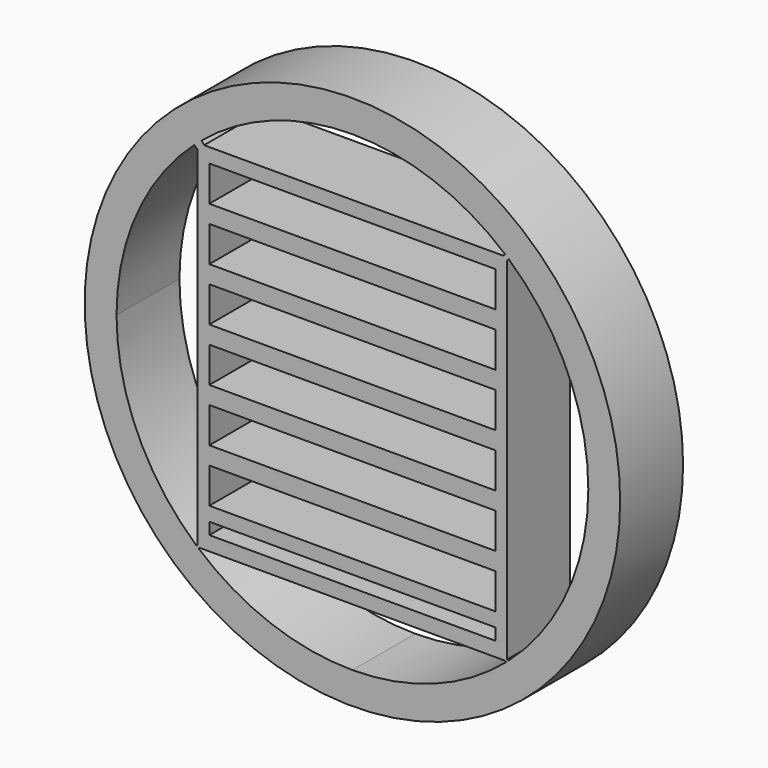
from build123d import *

# Parameters (mm, degrees)
F0_R     = 10.8121335874
F0_W     = 5.7772109285
F0_H     = 0.716982875
F0_H_2   = 0.7141863704
F0_H_3   = 0.5685804115
F1_DEPTH = 3.175


with BuildPart() as f1:
    # F0 (on Front) → F1 (new body)
    with BuildSketch(Plane.XZ):
        Circle(F0_R)
        with BuildLine():
            ThreePointArc((6.3062577959, 7.1383988129), (8.6831080411, 3.9152598569), (9.525, 0))
            ThreePointArc((9.525, 0), (8.6816518395, -3.9184877615), (6.3009482756, -7.1430858757))
            ThreePointArc((6.3009482756, -7.1430858757), (6.2763830489, -7.1646800922), (6.2517438163, -7.1861898288))
            ThreePointArc((6.2517438163, -7.1861898288), (6.2295179256, -7.205465385), (6.2072326042, -7.2246722))
            ThreePointArc((6.2072326042, -7.2246722), (3.3098808358, -8.9314228347), (0, -9.525))
            ThreePointArc((0, -9.525), (-3.3121824388, -8.9305695503), (-6.2109555135, -7.2214719143))
            ThreePointArc((-6.2109555135, -7.2214719143), (-6.2313746359, -7.2038597395), (-6.2517438163, -7.1861898288))
            ThreePointArc((-6.2517438163, -7.1861898288), (-6.2787205913, -7.1626316907), (-6.305608594, -7.1389722831))
            ThreePointArc((-6.305608594, -7.1389722831), (-8.6829300025, -3.9156546797), (-9.525, 0))
            ThreePointArc((-9.525, 0), (-8.7048463851, 3.8666877831), (-6.3856247955, 7.0674904295))
            ThreePointArc((-6.3856247955, 7.0674904295), (-6.3189630276, 7.1271544992), (-6.2517438163, 7.1861898288))
            ThreePointArc((-6.2517438163, 7.1861898288), (-6.1734679548, 7.2535452305), (-6.0944664659, 7.3200480529))
            ThreePointArc((-6.0944664659, 7.3200480529), (-3.2405375554, 8.9568153577), (0, 9.525))
            ThreePointArc((0, 9.525), (3.2811323241, 8.9420241373), (6.1606224546, 7.2644584087))
            ThreePointArc((6.1606224546, 7.2644584087), (6.2063065187, 7.2254677632), (6.2517438163, 7.1861898288))
            ThreePointArc((6.2517438163, 7.1861898288), (6.2790462746, 7.1623461855), (6.3062577959, 7.1383988129))
        make_face(mode=Mode.SUBTRACT)
        with Locations((-2.8886054642, 4.8158199061)):
            Rectangle(F0_W, F0_H)
        with Locations((2.8886054642, 4.8158199061)):
            Rectangle(F0_W, F0_H)
        with Locations((-2.8886054642, 0.5223121699)):
            Rectangle(F0_W, F0_H)
        with Locations((2.8886054642, 0.5223121699)):
            Rectangle(F0_W, F0_H)
        with Locations((2.8886054642, -3.7711955662)):
            Rectangle(F0_W, F0_H)
        with Locations((-2.8886054642, -3.7711955662)):
            Rectangle(F0_W, F0_H)
        with Locations((-2.8886054642, 2.669066038)):
            Rectangle(F0_W, F0_H_2)
        with Locations((2.8886054642, 2.669066038)):
            Rectangle(F0_W, F0_H_2)
        with Locations((-2.8886054642, -1.6244416981)):
            Rectangle(F0_W, F0_H_2)
        with Locations((2.8886054642, -1.6244416981)):
            Rectangle(F0_W, F0_H_2)
        Polygon((5.7772109285, 6.605480589), (6.2517438163, 7.1861898288), (6.0889851302, 7.1861898288), (0, 7.1861898288), (0, 6.605480589), align=None)
        Polygon((0, 6.605480589), (0, 7.1861898288), (-5.9895003214, 7.1861898288), (-6.2517438163, 7.1861898288), (-5.7772109285, 6.605480589), align=None)
        Polygon((-6.1821243726, -7.1861898288), (0, -7.1861898288), (0, -6.605480589), (-5.7772109285, -6.605480589), (-6.2517438163, -7.1861898288), align=None)
        Polygon((6.1562946066, -7.1861898288), (6.2517438163, -7.1861898288), (5.7772109285, -6.605480589), (0, -6.605480589), (0, -7.1861898288), align=None)
        with Locations((-2.8886054642, -5.8451464548)):
            Rectangle(F0_W, F0_H_3)
        with Locations((2.8886054642, -5.8451464548)):
            Rectangle(F0_W, F0_H_3)
        Polygon((6.2517438163, -7.1099842899), (6.2517438163, 0), (5.7772109285, 0), (5.7772109285, -0.5503656379), (5.7772109285, -1.2673485129), (5.7772109285, -1.9815348833), (5.7772109285, -2.6985177583), (5.7772109285, -3.4127041287), (5.7772109285, -4.1296870037), (5.7772109285, -4.843873374), (5.7772109285, -5.5608562491), (5.7772109285, -6.1294366606), (5.7772109285, -6.605480589), (6.2517438163, -7.1861898288), align=None)
        Polygon((5.7772109285, 0), (6.2517438163, 0), (6.2517438163, 7.0716873743), (6.2517438163, 7.1861898288), (5.7772109285, 6.605480589), (5.7772109285, 5.8884977139), (5.7772109285, 5.1743113436), (5.7772109285, 4.4573284686), (5.7772109285, 3.7431420982), (5.7772109285, 3.0261592232), (5.7772109285, 2.3119728528), (5.7772109285, 1.5949899778), (5.7772109285, 0.8808036075), (5.7772109285, 0.1638207324), align=None)
        Polygon((-6.2517438163, 0), (-5.7772109285, 0), (-5.7772109285, 0.1638207324), (-5.7772109285, 0.8808036075), (-5.7772109285, 1.5949899778), (-5.7772109285, 2.3119728528), (-5.7772109285, 3.0261592232), (-5.7772109285, 3.7431420982), (-5.7772109285, 4.4573284686), (-5.7772109285, 5.1743113436), (-5.7772109285, 5.8884977139), (-5.7772109285, 6.605480589), (-6.2517438163, 7.1861898288), (-6.2517438163, 6.9398786873), align=None)
        Polygon((-5.7772109285, -0.5503656379), (-5.7772109285, 0), (-6.2517438163, 0), (-6.2517438163, -7.1003455669), (-6.2517438163, -7.1861898288), (-5.7772109285, -6.605480589), (-5.7772109285, -6.1294366606), (-5.7772109285, -5.5608562491), (-5.7772109285, -4.843873374), (-5.7772109285, -4.1296870037), (-5.7772109285, -3.4127041287), (-5.7772109285, -2.6985177583), (-5.7772109285, -1.9815348833), (-5.7772109285, -1.2673485129), align=None)
        with BuildLine():
            Line((-5.9895003214, 7.1861898288), (-6.0944664659, 7.3200480529))
            ThreePointArc((-6.0944664659, 7.3200480529), (-6.1734679548, 7.2535452305), (-6.2517438163, 7.1861898288))
            Line((-6.2517438163, 7.1861898288), (-5.9895003214, 7.1861898288))
        make_face()
        with BuildLine():
            Line((-6.2517438163, 6.9398786873), (-6.2517438163, 7.1861898288))
            ThreePointArc((-6.2517438163, 7.1861898288), (-6.3189630276, 7.1271544992), (-6.3856247955, 7.0674904295))
            Line((-6.3856247955, 7.0674904295), (-6.2517438163, 6.9398786873))
        make_face()
        with BuildLine():
            Line((6.0889851302, 7.1861898288), (6.2517438163, 7.1861898288))
            ThreePointArc((6.2517438163, 7.1861898288), (6.2063065187, 7.2254677632), (6.1606224546, 7.2644584087))
            Line((6.1606224546, 7.2644584087), (6.0889851302, 7.1861898288))
        make_face()
        with BuildLine():
            Line((6.2517438163, 7.0716873743), (6.3062577959, 7.1383988129))
            ThreePointArc((6.3062577959, 7.1383988129), (6.2790462746, 7.1623461855), (6.2517438163, 7.1861898288))
            Line((6.2517438163, 7.1861898288), (6.2517438163, 7.0716873743))
        make_face()
        with BuildLine():
            ThreePointArc((-6.305608594, -7.1389722831), (-6.2787205913, -7.1626316907), (-6.2517438163, -7.1861898288))
            Line((-6.2517438163, -7.1861898288), (-6.2517438163, -7.1003455669))
            Line((-6.2517438163, -7.1003455669), (-6.305608594, -7.1389722831))
        make_face()
        with BuildLine():
            ThreePointArc((6.2517438163, -7.1861898288), (6.2763830489, -7.1646800922), (6.3009482756, -7.1430858757))
            Line((6.3009482756, -7.1430858757), (6.2517438163, -7.1099842899))
            Line((6.2517438163, -7.1099842899), (6.2517438163, -7.1861898288))
        make_face()
        with BuildLine():
            ThreePointArc((6.2072326042, -7.2246722), (6.2295179256, -7.205465385), (6.2517438163, -7.1861898288))
            Line((6.2517438163, -7.1861898288), (6.1562946066, -7.1861898288))
            Line((6.1562946066, -7.1861898288), (6.2072326042, -7.2246722))
        make_face()
        with BuildLine():
            ThreePointArc((-6.2517438163, -7.1861898288), (-6.2313746359, -7.2038597395), (-6.2109555135, -7.2214719143))
            Line((-6.2109555135, -7.2214719143), (-6.1821243726, -7.1861898288))
            Line((-6.1821243726, -7.1861898288), (-6.2517438163, -7.1861898288))
        make_face()
    extrude(amount=F1_DEPTH)


solid = f1.part
